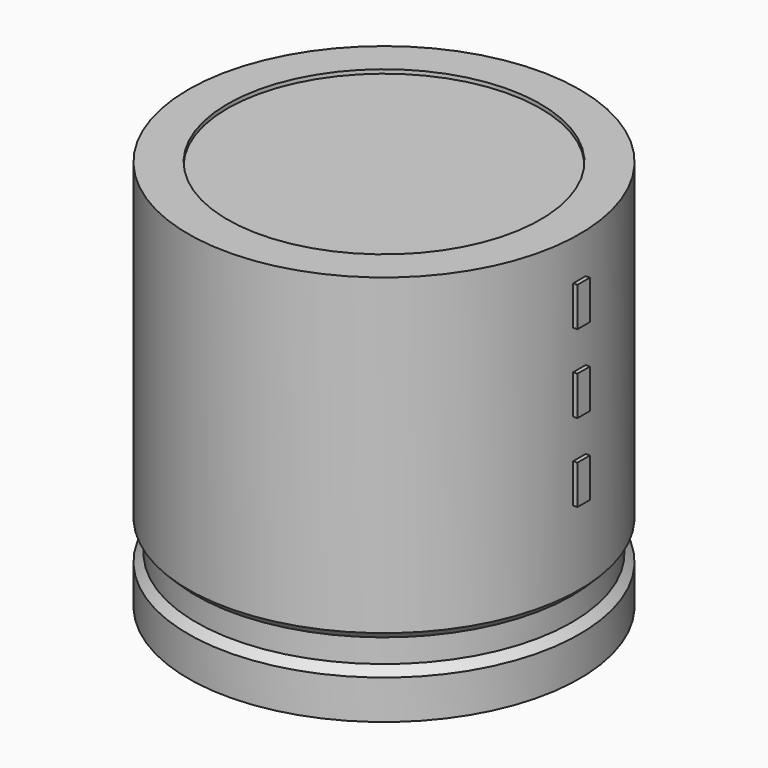
from build123d import *

# Parameters (mm, degrees)
SKETCH002_W   = 16.1
SKETCH002_H   = 34.3
SKETCH003_R   = 0.85
SKETCH003_R_2 = 1.1
PAD_DEPTH     = 6.5
SKETCH004_W   = 1.4
SKETCH004_H   = 3.5
PAD001_DEPTH  = 17.85


with BuildPart() as revolution:
    # Sketch → Revolution (revolve)
    with BuildSketch(Plane.XZ):
        Polygon((-12.5, 0.1), (-12.5, 3.6), (-11.8, 4.3), (-11.8, 6.4), (-12.5, 7.1), (-12.5, 35.1), (-9, 35.1), (-9, 0.1), align=None)
    revolve(axis=Axis((5, 0, 7.548619), (0, 0, -1)))


with BuildPart() as revolution001:
    # Sketch002 → Revolution001 (revolve)
    with BuildSketch(Plane.XZ):
        with Locations((-3.05, 17.6)):
            Rectangle(SKETCH002_W, SKETCH002_H)
    revolve(axis=Axis((5, 0, 4.680116), (0, 0, -1)))


with BuildPart() as pad:
    # Sketch003 → Pad (new body)
    with BuildSketch(Plane.XY.offset(3.5)):
        Circle(SKETCH003_R)
        with Locations((10, 0)):
            Circle(SKETCH003_R)
        with Locations((6.7, -4.75)):
            Circle(SKETCH003_R_2)
    extrude(amount=-PAD_DEPTH)


with BuildPart() as pad001:
    # Sketch004 → Pad001 (new body)
    with BuildSketch(Plane.YZ.offset(5)):
        with Locations((0, 15.75)):
            Rectangle(SKETCH004_W, SKETCH004_H)
        with Locations((0, 22.75)):
            Rectangle(SKETCH004_W, SKETCH004_H)
        with Locations((0, 29.75)):
            Rectangle(SKETCH004_W, SKETCH004_H)
    extrude(amount=PAD001_DEPTH)


solid = Compound([revolution.part, revolution001.part, pad.part, pad001.part])
